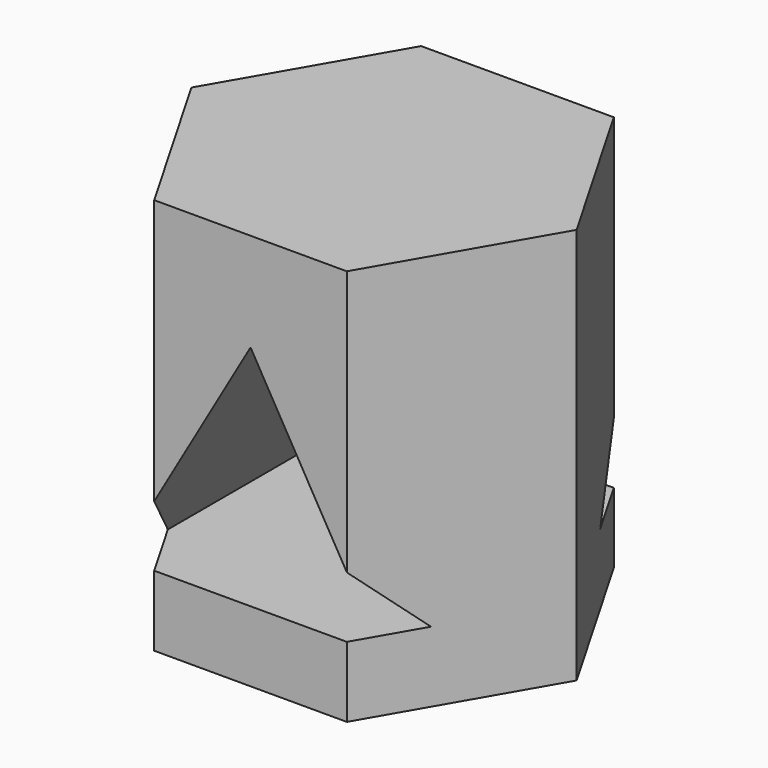
from build123d import *

# Parameters (mm, degrees)
F1_DEPTH = 48.768
F3_DEPTH = 41.91


with BuildPart() as f1:
    # F0 (on Top) → F1 (new body)
    with BuildSketch(Plane.XY):
        Polygon((11.840287, 20.507978), (-11.840287, 20.507978), (-23.680574, 0), (-11.840287, -20.507978), (11.840287, -20.507978), (23.680574, 0), align=None)
    extrude(amount=F1_DEPTH)

    # F2 (on Front) → F3 (cut, symmetric)
    with BuildSketch(Plane.XZ):
        Polygon((16.175307, 8.665344), (0, 36.681798), (-16.175307, 8.665344), align=None)
    extrude(amount=F3_DEPTH, both=True, mode=Mode.SUBTRACT)


solid = f1.part
